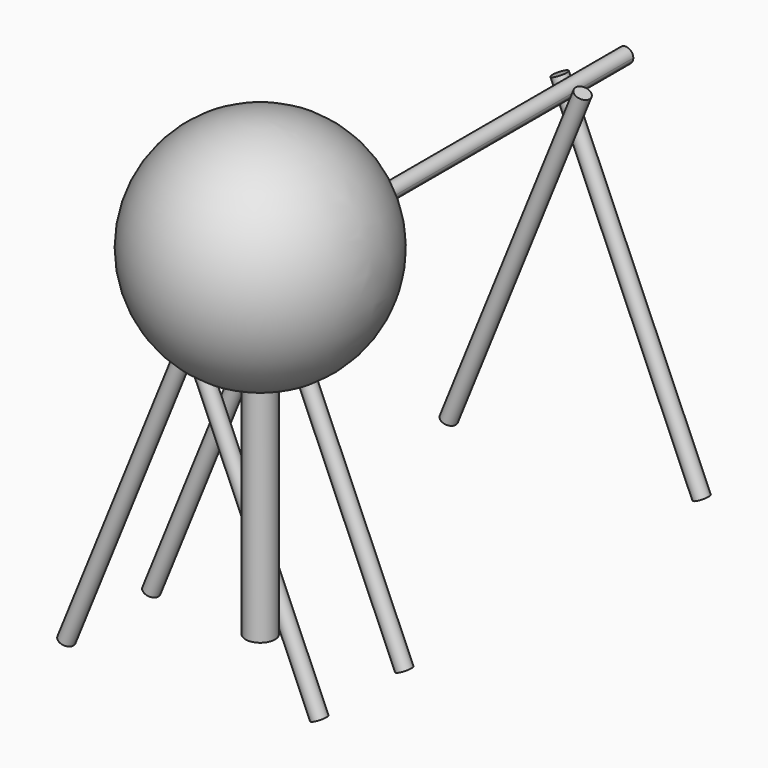
from build123d import *

# Parameters (mm, degrees)
F8_DEPTH = 3650


with BuildPart() as f1:
    # F0 (on Front) → F1 (revolve)
    with BuildSketch(Plane.XZ):
        with BuildLine():
            Line((0, 2190.5754006341), (0, -803.2001797248))
            Line((0, -803.2001797248), (96.425546728, -803.2001797248))
            Line((96.425546728, -803.2001797248), (96.425546728, 696.7998202752))
            ThreePointArc((96.425546728, 696.7998202752), (748.4422774233, 1488.8885185775), (0, 2190.5754006341))
        make_face()
    revolve(axis=Axis((0, 0, 546.5679168701), (0, 0, -1)))


with BuildPart() as f3:
    # F2 (on Front) → F3 (revolve)
    with BuildSketch(Plane.XZ):
        Polygon((-395.5286755533, 926.4169576403), (-441.8701389679, 945.191109248), (-465.0765531403, 887.9092029429), (-536.0963311404, 712.6064509105), (-508.1735851997, 648.3681771525), align=None)
        Polygon((-1277.9138011167, -1251.6318228475), (-534.4741160303, 583.4488608105), (-562.396861971, 647.6871345686), (-1324.2552645313, -1232.8576712398), align=None)
        Polygon((-534.4741160303, 583.4488608105), (-508.1735851997, 648.3681771525), (-536.0963311404, 712.6064509105), (-562.396861971, 647.6871345686), align=None)
    revolve(axis=Axis((-836.721238335, 0, -162.6074326036), (-0.3754830322, 0, -0.9268292683)))


with BuildPart() as f4:
    # F2 (on Front) → F4 (revolve)
    with BuildSketch(Plane.XZ):
        Polygon((-562.396861971, 647.6871345686), (-536.0963311404, 712.6064509105), (-627.766425885, 923.500059087), (-673.6217395407, 903.5679189728), align=None)
        Polygon((309.0441594831, -1231.6996827333), (-508.1735851997, 648.3681771525), (-534.4741160303, 583.4488608105), (263.1888458274, -1251.6318228475), align=None)
        Polygon((-534.4741160303, 583.4488608105), (-508.1735851997, 648.3681771525), (-536.0963311404, 712.6064509105), (-562.396861971, 647.6871345686), align=None)
    revolve(axis=Axis((-159.3611332009, 0, -154.0998118232), (0.3986428023, 0, -0.9171062731)))


with BuildPart() as f4_1:
    # F5: moved
    add(f4.part.moved(Location((0, 100, 0))))


with BuildPart() as f6_1:
    # F6: copy of F3
    add(f3.part.moved(Location((0, 700, 0))))


with BuildPart() as f6_2:
    # F6: copy of F4
    add(f4_1.part.moved(Location((0, 700, 0))))


with BuildPart() as f7_1:
    # F7: copy of F3
    add(f3.part.moved(Location((0, 3150, 0))))


with BuildPart() as f7_2:
    # F7: copy of F4
    add(f4_1.part.moved(Location((0, 3150, 0))))


with BuildPart() as f8:
    # F2 (on Front) → F8 (new body)
    with BuildSketch(Plane.XZ):
        with BuildLine():
            ThreePointArc((-461.4180154198, 906.6833573525), (-560.4948588083, 916.2470095322), (-465.0765531403, 887.9092029429))
            ThreePointArc((-465.0765531403, 887.9092029429), (-462.3411720312, 897.1197051729), (-461.4180154198, 906.6833573525))
        make_face()
    extrude(amount=-F8_DEPTH)


solid = Compound([f1.part, f3.part, f4_1.part, f6_1.part, f6_2.part, f7_1.part, f7_2.part, f8.part])
